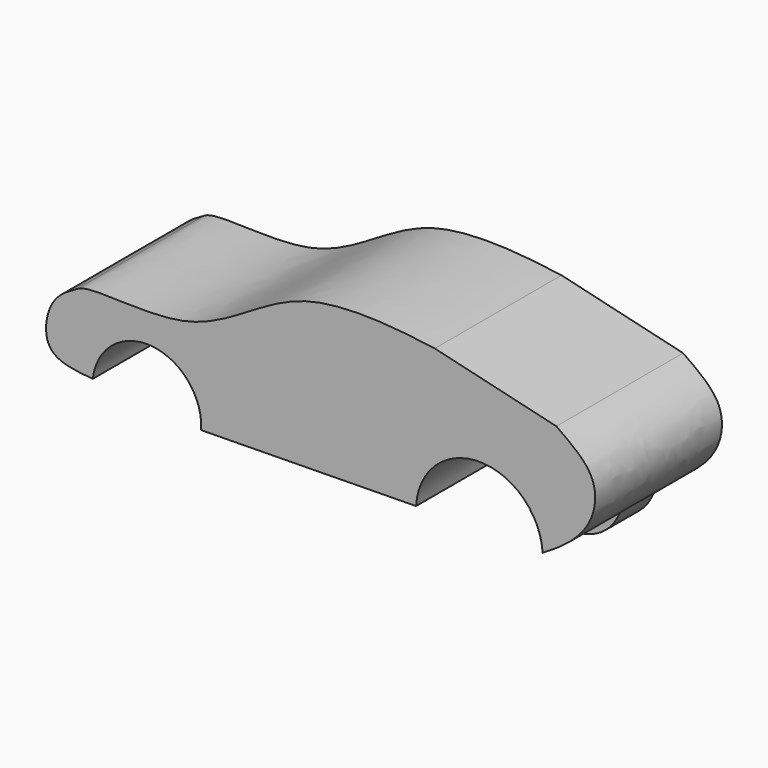
from build123d import *

# Parameters (mm, degrees)
F0_R     = 10.7648143955
F1_DEPTH = 10.16
F0_R_2   = 11.5928463858
F3_DEPTH = 38.1


with BuildPart() as f1:
    # F0 (on Front) → F1 (new body)
    with BuildSketch(Plane.XZ):
        with Locations((-49.8573184013, -19.5213407278)):
            Circle(F0_R)
    extrude(amount=F1_DEPTH)


with BuildPart() as f1b:
    # F0 (on Front) → F1, piece 2 (new body)
    with BuildSketch(Plane.XZ):
        with Locations((29.8777315766, -19.5213407278)):
            Circle(F0_R_2)
    extrude(amount=F1_DEPTH)


with BuildPart() as f3:
    # F2 (on Front) → F3 (new body)
    with BuildSketch(Plane.XZ):
        with BuildLine():
            ThreePointArc((14.1140213236, -19.5213407278), (29.327835422, -5.1748885976), (44.5416495204, -19.5213407278))
            add(Edge.make_bspline(
                [(44.5416495204, -19.5213407278), (49.4861837134, -16.6310779415), (56.6740007358, -11.1655072143), (58.2753974305, 1.0585842235), (51.4601339264, 5.792301038), (47.8410348296, 8.3401026204)],
                knots=[0, 0, 0, 0, 0.3672132723, 0.6680576414, 1, 1, 1, 1], degree=3))
            Line((47.8410348296, 8.3401026204), (18.6113944658, 15.305464156))
            add(Edge.make_bspline(
                [(18.6113944658, 15.305464156), (12.7238584134, 16.0597433895), (-15.9157623646, 20.4472537814), (-37.0131828329, -3.5251980606), (-63.981585704, 2.0544994679), (-67.2707185149, 0)],
                knots=[0, 0, 0, 0, 0.339532105, 0.6882327384, 1, 1, 1, 1], degree=3))
            add(Edge.make_bspline(
                [(-67.2707185149, 0), (-69.5667038523, -1.2541929166), (-74.3909251258, -3.8894467448), (-76.1343603524, -16.7777810793), (-67.8650563977, -17.4997132256), (-63.6047422886, -17.8716499358)],
                knots=[0, 0, 0, 0, 0.3056849659, 0.6422915215, 1, 1, 1, 1], degree=3))
            ThreePointArc((-63.6047422886, -17.8716499358), (-49.4243825032, -6.325330981), (-37.5762879848, -20.2545356005))
            Line((-37.5762879848, -20.2545356005), (14.1140213236, -19.5213407278))
        make_face()
    extrude(amount=F3_DEPTH)


solid = Compound([f1.part, f1b.part, f3.part])
